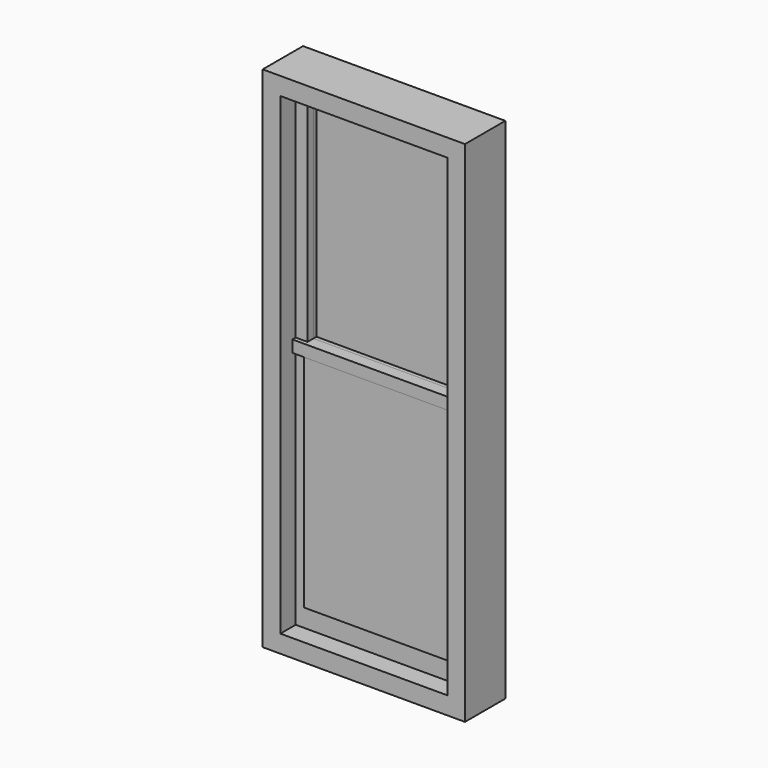
from build123d import *

# Parameters (mm, degrees)
F0_W          = 686
F0_H          = 1725
F1_DEPTH      = 146
F1_DEPTH_BACK = 25
F0_W_2        = 486
F0_H_2        = 707.5
F2_DEPTH      = 56
F3_START      = 56
F3_DEPTH      = 25
F4_START      = 1
F0_W_3        = 219
F0_H_3        = 329.75
F4_DEPTH      = 17
F6_START      = 55
F5_W          = 486
F5_H          = 747.5
F5_W_2        = 219
F5_H_2        = 349.75
F6_DEPTH      = 15
F7_SIZE2      = 12.670755226
F7_SIZE       = 80
F8_W          = 486
F8_H          = 747.5
F8_W_2        = 219
F8_H_2        = 349.75
F9_DEPTH      = 25
F10_DEPTH     = 25
F12_DEPTH     = 14
F13_W         = 486
F13_H         = 707.5
F13_W_2       = 219
F13_H_2       = 329.75
F14_DEPTH     = 25


with BuildPart() as f1:
    # F0 (on Front) → F1 (new body, two sides)
    with BuildSketch(Plane.XZ) as f1_sk:
        with Locations((-343, 862.5)):
            Rectangle(F0_W, F0_H)
        Polygon((-626, 1665), (-60, 1665), (-60, 877.5), (-60, 60), (-626, 60), (-626, 877.5), align=None, mode=Mode.SUBTRACT)
    extrude(amount=F1_DEPTH)
    extrude(f1_sk.sketch, amount=-F1_DEPTH_BACK)

    # F7
    f7_edges = [f1.edges().sort_by_distance(p)[0] for p in [
        (-343, 25, 60),
    ]]
    f7_side = f1.faces().sort_by_distance((-343, -60.5, 60))[0]
    chamfer(f7_edges, length=F7_SIZE, length2=F7_SIZE2, reference=f7_side)


with BuildPart() as f2:
    # F0 (on Front) → F2 (new body)
    with BuildSketch(Plane.XZ):
        Polygon((-60, 877.5), (-60, 1665), (-626, 1665), (-626, 877.5), (-586, 877.5), (-100, 877.5), align=None)
        with Locations((-343, 1271.25)):
            Rectangle(F0_W_2, F0_H_2, mode=Mode.SUBTRACT)
    extrude(amount=F2_DEPTH)


with BuildPart() as f3:
    # F0 (on Front) → F3 (new body)
    with BuildSketch(Plane.XZ.offset(F3_START)):
        Polygon((-60, 60), (-60, 877.5), (-100, 877.5), (-100, 130), (-586, 130), (-586, 877.5), (-626, 877.5), (-626, 60), align=None)
    extrude(amount=F3_DEPTH)


with BuildPart() as f4:
    # F0 (on Front) → F4 (new body)
    with BuildSketch(Plane.XZ.offset(F4_START)):
        with Locations((-343, 1271.25)):
            Rectangle(F0_W_2, F0_H_2)
        with Locations((-461.5, 1097.375)):
            Rectangle(F0_W_3, F0_H_3, mode=Mode.SUBTRACT)
        with Locations((-461.5, 1445.125)):
            Rectangle(F0_W_3, F0_H_3, mode=Mode.SUBTRACT)
        with Locations((-224.5, 1097.375)):
            Rectangle(F0_W_3, F0_H_3, mode=Mode.SUBTRACT)
        with Locations((-224.5, 1445.125)):
            Rectangle(F0_W_3, F0_H_3, mode=Mode.SUBTRACT)
    extrude(amount=F4_DEPTH)


with BuildPart() as f6:
    # F5 (on face) → F6 (new body)
    with BuildSketch(Plane.XZ.offset(F6_START)):
        with Locations((-343, 503.75)):
            Rectangle(F5_W, F5_H)
        with Locations((-461.5, 319.875)):
            Rectangle(F5_W_2, F5_H_2, mode=Mode.SUBTRACT)
        with Locations((-224.5, 319.875)):
            Rectangle(F5_W_2, F5_H_2, mode=Mode.SUBTRACT)
        with Locations((-461.5, 687.625)):
            Rectangle(F5_W_2, F5_H_2, mode=Mode.SUBTRACT)
        with Locations((-224.5, 687.625)):
            Rectangle(F5_W_2, F5_H_2, mode=Mode.SUBTRACT)
    extrude(amount=F6_DEPTH)


with BuildPart() as f9:
    # F8 (on face) → F9 (new body)
    with BuildSketch(Plane.XZ.offset(70)):
        with Locations((-343, 503.75)):
            Rectangle(F8_W, F8_H)
        with Locations((-461.5, 319.875)):
            Rectangle(F8_W_2, F8_H_2, mode=Mode.SUBTRACT)
        with Locations((-224.5, 319.875)):
            Rectangle(F8_W_2, F8_H_2, mode=Mode.SUBTRACT)
        with Locations((-461.5, 687.625)):
            Rectangle(F8_W_2, F8_H_2, mode=Mode.SUBTRACT)
        with Locations((-224.5, 687.625)):
            Rectangle(F8_W_2, F8_H_2, mode=Mode.SUBTRACT)
        with Locations((-461.5, 687.625)):
            Rectangle(F8_W_2, F8_H_2)
        with Locations((-224.5, 687.625)):
            Rectangle(F8_W_2, F8_H_2)
        with Locations((-461.5, 319.875)):
            Rectangle(F8_W_2, F8_H_2)
        with Locations((-224.5, 319.875)):
            Rectangle(F8_W_2, F8_H_2)
    extrude(amount=F9_DEPTH)


with BuildPart() as f10:
    # F10 (new): a face of the model
    f10_faces = [f2.part.faces().sort_by_distance(p)[0] for p in [
        (-69.6980010827, -56, 1271.25),
    ]]
    extrude(f10_faces, amount=F10_DEPTH)

    # F11 (on face) → F12 (join, through all)
    with BuildSketch(Plane.XZ.offset(81)):
        Polygon((-100, 917.5), (-586, 917.5), (-626, 917.5), (-626, 877.5), (-60, 877.5), (-60, 917.5), align=None)
    extrude(amount=F12_DEPTH)


with BuildPart() as f14:
    # F13 (on face) → F14 (new body)
    with BuildSketch(Plane.XZ.offset(18)):
        with Locations((-343, 1271.25)):
            Rectangle(F13_W, F13_H)
        with Locations((-461.5, 1097.375)):
            Rectangle(F13_W_2, F13_H_2, mode=Mode.SUBTRACT)
        with Locations((-224.5, 1097.375)):
            Rectangle(F13_W_2, F13_H_2, mode=Mode.SUBTRACT)
        with Locations((-461.5, 1445.125)):
            Rectangle(F13_W_2, F13_H_2, mode=Mode.SUBTRACT)
        with Locations((-224.5, 1445.125)):
            Rectangle(F13_W_2, F13_H_2, mode=Mode.SUBTRACT)
        with Locations((-224.5, 1097.375)):
            Rectangle(F13_W_2, F13_H_2)
        with Locations((-461.5, 1097.375)):
            Rectangle(F13_W_2, F13_H_2)
        with Locations((-461.5, 1445.125)):
            Rectangle(F13_W_2, F13_H_2)
        with Locations((-224.5, 1445.125)):
            Rectangle(F13_W_2, F13_H_2)
    extrude(amount=F14_DEPTH)


solid = Compound([f1.part, f2.part, f3.part, f4.part, f6.part, f9.part, f10.part, f14.part])
